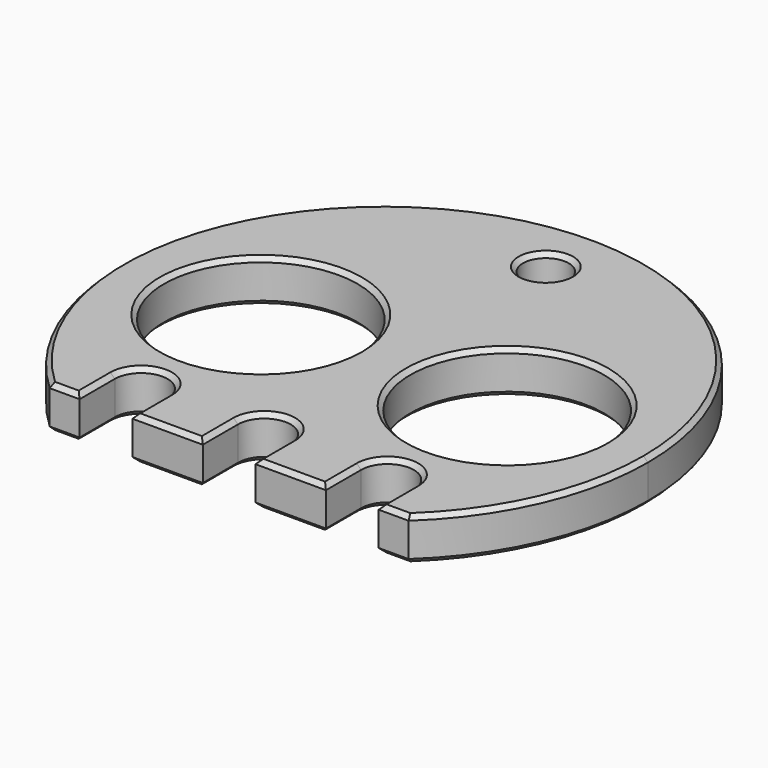
from build123d import *

# Parameters (mm, degrees)
F0_R     = 11
F0_R_2   = 2.6
F1_DEPTH = 4.83
F3_DEPTH = 25
F4_SIZE  = 0.5


with BuildPart() as f1:
    # F0 (on Top) → F1 (new body)
    with BuildSketch(Plane.XY):
        with BuildLine():
            ThreePointArc((20.396078, -22), (27.494384, -12.002451), (30, 0))
            ThreePointArc((30, 0), (-12.002451, 27.494384), (-20.396078, -22))
            Line((-20.396078, -22), (20.396078, -22))
        make_face()
        with Locations((-14, 0)):
            Circle(F0_R, mode=Mode.SUBTRACT)
        with Locations((14, 0)):
            Circle(F0_R, mode=Mode.SUBTRACT)
        with Locations((0, 23)):
            Circle(F0_R_2, mode=Mode.SUBTRACT)
    extrude(amount=F1_DEPTH)

    # F2 (on face) → F3 (cut)
    with BuildSketch(Plane(origin=(0, 0, 0), x_dir=(1, 0, 0), z_dir=(0, 0, -1))):
        with BuildLine():
            ThreePointArc((3, 22), (0, 25), (-3, 22))
            Line((-3, 22), (-3, 17))
            ThreePointArc((-3, 17), (0, 14), (3, 17))
            Line((3, 17), (3, 22))
        make_face()
        with BuildLine():
            ThreePointArc((17, 22), (14, 25), (11, 22))
            Line((11, 22), (11, 17))
            ThreePointArc((11, 17), (14, 14), (17, 17))
            Line((17, 17), (17, 22))
        make_face()
        with BuildLine():
            ThreePointArc((-11, 22), (-14, 25), (-17, 22))
            Line((-17, 22), (-17, 17))
            ThreePointArc((-17, 17), (-14, 14), (-11, 17))
            Line((-11, 17), (-11, 22))
        make_face()
    extrude(amount=-F3_DEPTH, mode=Mode.SUBTRACT)

    # F4
    f4_edges = [f1.edges().sort_by_distance(p)[0] for p in [
        (0, 30, 0),
        (18.698039, -22, 0),
        (17, -19.5, 0),
        (14, -14, 0),
        (11, -19.5, 0),
        (7, -22, 0),
        (3, -19.5, 0),
        (0, -14, 0),
        (-3, -19.5, 0),
        (-7, -22, 0),
        (-11, -19.5, 0),
        (-14, -14, 0),
        (-17, -19.5, 0),
        (-18.698039, -22, 0),
        (-25, 0, 0),
        (3, 0, 0),
        (-2.6, 23, 0),
        (0, 30, 4.83),
        (18.698039, -22, 4.83),
        (17, -19.5, 4.83),
        (14, -14, 4.83),
        (11, -19.5, 4.83),
        (7, -22, 4.83),
        (3, -19.5, 4.83),
        (0, -14, 4.83),
        (-3, -19.5, 4.83),
        (-7, -22, 4.83),
        (-11, -19.5, 4.83),
        (-14, -14, 4.83),
        (-17, -19.5, 4.83),
        (-18.698039, -22, 4.83),
        (-25, 0, 4.83),
        (3, 0, 4.83),
        (-2.6, 23, 4.83),
    ]]
    chamfer(f4_edges, length=F4_SIZE)


solid = f1.part
